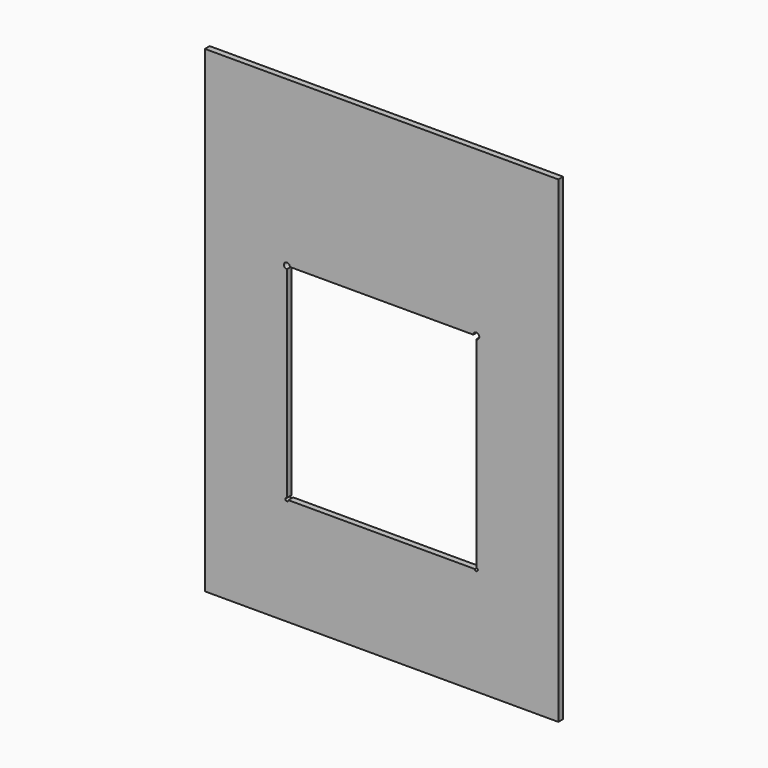
from build123d import *

# Parameters (mm, degrees)
F0_W     = 93.98
F0_H     = 127
F1_DEPTH = 1.6002


with BuildPart() as f1:
    # F0 (on Front) → F1 (new body)
    with BuildSketch(Plane.XZ):
        with Locations((0, 7.5615)):
            Rectangle(F0_W, F0_H)
        with BuildLine():
            ThreePointArc((-25.1885, 26.5761), (-25.745276, 27.920276), (-24.4011, 27.3635))
            Line((-24.4011, 27.3635), (24.4011, 27.3635))
            ThreePointArc((24.4011, 27.3635), (25.745276, 27.920276), (25.1885, 26.5761))
            Line((25.1885, 26.5761), (25.1885, -26.9698))
            ThreePointArc((25.1885, -26.9698), (25.466888, -27.641888), (24.7948, -27.3635))
            Line((24.7948, -27.3635), (-24.7948, -27.3635))
            ThreePointArc((-24.7948, -27.3635), (-25.466888, -27.641888), (-25.1885, -26.9698))
            Line((-25.1885, -26.9698), (-25.1885, 26.5761))
        make_face(mode=Mode.SUBTRACT)
    extrude(amount=F1_DEPTH)


solid = f1.part
